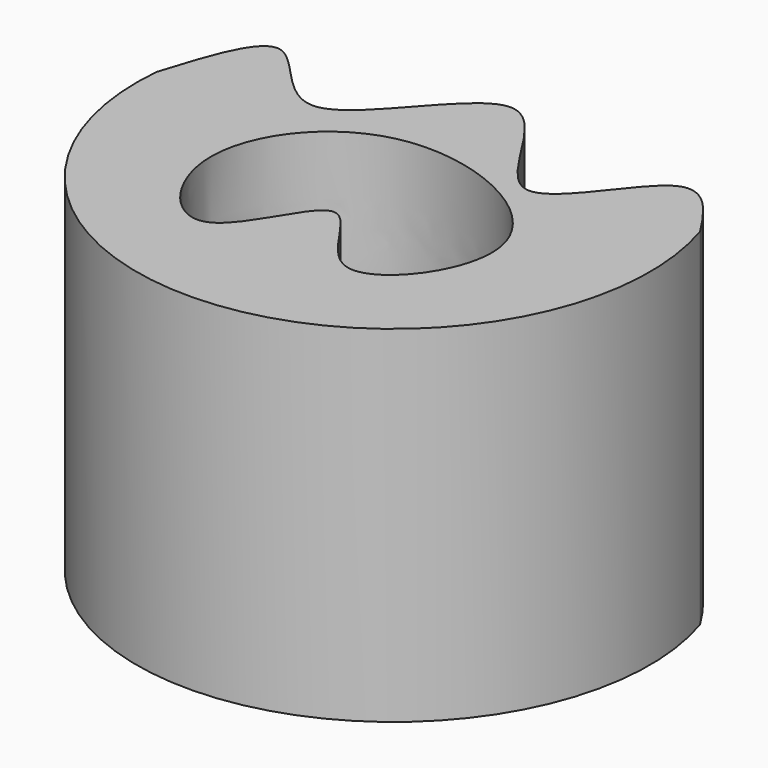
from build123d import *

# Parameters (mm, degrees)
F1_DEPTH = 78.232
F3_DEPTH = 227.838


with BuildPart() as f1:
    # F0 (on Top) → F1 (new body)
    with BuildSketch(Plane.XY):
        with BuildLine():
            add(Edge.make_bspline(
                [(-57.7545021759, 5.3178420382), (-54.4230234527, 16.0728975085), (-47.7966215606, 37.4159214981), (-26.8953459098, -3.8271698776), (1.2811431931, 54.9203356577), (20.1745613199, -7.2791616795), (41.1869945031, 39.1158563433), (50.9187576759, 24.2970555392), (55.2509185716, 17.640803908)],
                knots=[0, 0, 0, 0, 0.1588185877, 0.3151536995, 0.5087543956, 0.6922113256, 0.8620549549, 1, 1, 1, 1], degree=3))
            ThreePointArc((-57.7545021759, 5.3178420382), (6.2873547718, -57.6570128909), (55.2509185716, 17.640803908))
        make_face()
    extrude(amount=F1_DEPTH)

    # F2 (on face) → F3 (cut)
    with BuildSketch(Plane.XY.offset(78.232)):
        with BuildLine():
            add(Edge.make_bspline(
                [(-29.9417953938, -16.1421485245), (-31.1514749745, -3.4647331033), (-11.04849544, 23.917390067), (46.2080860168, -3.1876721479), (13.6433057092, -45.7481890625), (-0.1612058214, -2.9327834784), (-13.2562685376, -46.1954808159), (-28.9689053411, -26.3380148959), (-29.9417953938, -16.1421485245)],
                knots=[0, 0, 0, 0, 0.1865788988, 0.3937967878, 0.558236422, 0.7021544658, 0.8499431109, 1, 1, 1, 1], degree=3))
        make_face()
    extrude(amount=-F3_DEPTH, mode=Mode.SUBTRACT)


solid = f1.part
